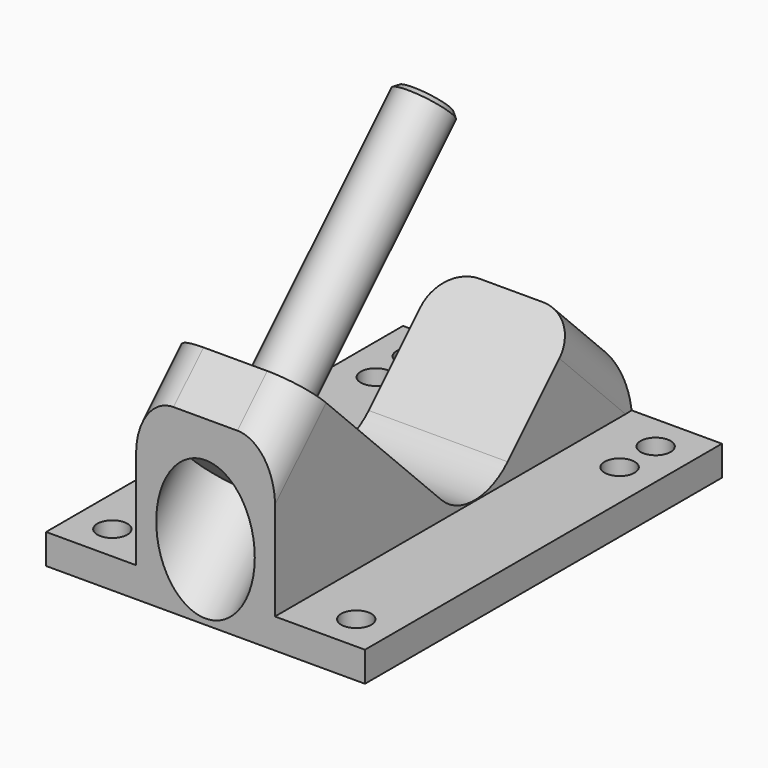
from build123d import *

# Parameters (mm, degrees)
F1_DEPTH = 27.0002
F2_R     = 9.906
F3_W     = 75.565
F3_H     = 31.9594877579
F4_DEPTH = 15.24
F5_R     = 2.54
F6_DEPTH = 5.081
F8_R     = 6.35
F13_SIZE = 0.762


with BuildPart() as f1:
    # F0 (on Right) → F1 (new body)
    with BuildSketch(Plane.YZ):
        Polygon((0, 30.7152561211), (0, 0), (75.565, 0), (75.565, 12.7), (64.6958964237, 23.5691035763), (42.2452561211, 1.1184632736), (6.3242316368, 37.0394877579), align=None)
    extrude(amount=F1_DEPTH)

    # F2
    f2_edges = [f1.edges().sort_by_distance(p)[0] for p in [
        (13.5001, 42.245256, 1.118463),
    ]]
    fillet(f2_edges, radius=F2_R)

    # F3 (on face) → F4 (cut)
    with BuildSketch(Plane.YZ.offset(27.0002)):
        with Locations((37.7825, 21.0597438789)):
            Rectangle(F3_W, F3_H)
    extrude(amount=-F4_DEPTH, mode=Mode.SUBTRACT)

    # F5 (on face) → F6 (cut, through all)
    with BuildSketch(Plane.XY.offset(5.08)):
        with Locations((20.6502, 69.469)):
            Circle(F5_R)
        with Locations((20.6502, 61.849)):
            Circle(F5_R)
        with Locations((20.6502, 6.096)):
            Circle(F5_R)
    extrude(amount=-F6_DEPTH, mode=Mode.SUBTRACT)

    # F7: F1 across face


with BuildPart() as f1_1:
    add(f1.part)
    add(f1.part.mirror(Plane(origin=(0, 31.4337361572, 11.6287579026), x_dir=(0, 1, 0), z_dir=(-1, 0, 0))))

    # F8
    f8_edges = [f1_1.edges().sort_by_distance(p)[0] for p in [
        (-11.7602, 3.162116, 33.877372),
        (11.7602, 3.162116, 33.877372),
        (-11.7602, 70.130448, 18.134552),
        (11.7602, 70.130448, 18.134552),
    ]]
    fillet(f8_edges, radius=F8_R)

    # F9 (on Right) → F10 (revolve, cut)
    with BuildSketch(Plane.YZ):
        Polygon((-6.3773719395, 6.3773719395), (15.3044877579, 28.0592316368), (11.9368917125, 31.4268276822), (5.2016996217, 24.6916355914), (2.6692673955, 27.2240678175), (-12.277400211, 12.277400211), align=None)
    revolve(axis=Axis((0, 22.0396798487, 34.7944237276), (0, 0.7071067812, 0.7071067812)), mode=Mode.SUBTRACT)


with BuildPart() as f12:
    # F11 (on Right) → F12 (revolve)
    with BuildSketch(Plane.YZ):
        Polygon((11.9368917125, 31.4268276822), (5.2016996217, 24.6916355914), (2.9566355914, 26.9366996217), (1.1605843672, 25.1406483974), (6.7732444428, 19.5279883218), (46.7353841816, 59.4901280605), (43.3677881362, 62.8577241059), align=None)
    revolve(axis=Axis((0, 26.7543143122, 39.5090581912), (0, 0.7071067812, 0.7071067812)))

    # F13
    f13_edges = [f12.edges().sort_by_distance(p)[0] for p in [
        (0, 50.10298, 56.122532),
    ]]
    chamfer(f13_edges, length=F13_SIZE)


solid = Compound([f1_1.part, f12.part])
